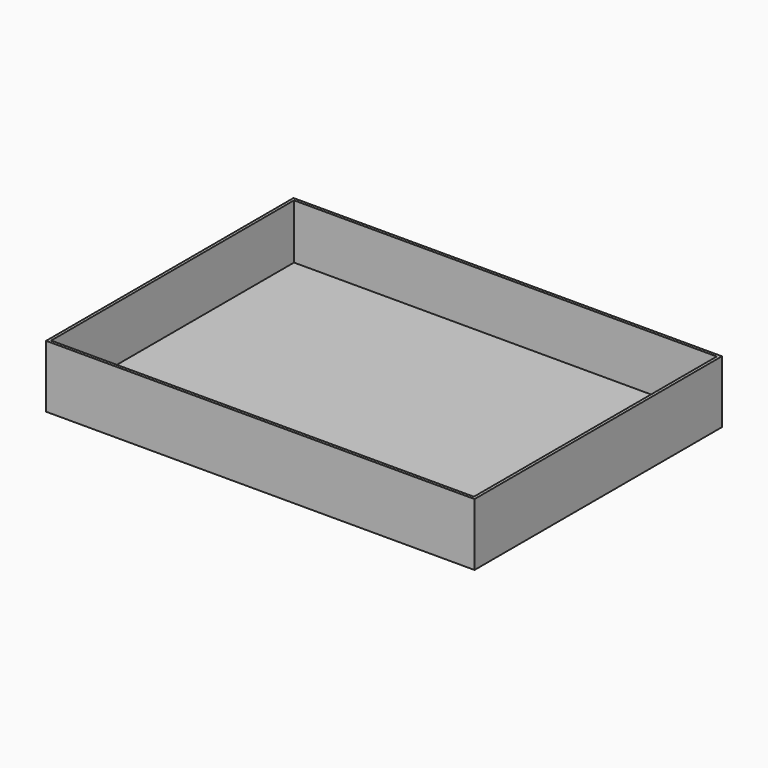
from build123d import *

# Parameters (mm, degrees)
BOX001_W     = 74.5
BOX001_H     = 53.5
BOX001_DEPTH = 10
BOX_W        = 75.5
BOX_H        = 54.5
BOX_DEPTH    = 11


with BuildPart() as cubo001:
    # Box001 → Box001 (new body)
    with BuildSketch(Plane(origin=(0.49, 0.5, 1.35), x_dir=(1, 0, 0), z_dir=(0, 0, 1))):
        with Locations((37.25, 26.75)):
            Rectangle(BOX001_W, BOX001_H)
    extrude(amount=BOX001_DEPTH)


with BuildPart() as cut:
    # Box → Box (new body)
    with BuildSketch(Plane.XY):
        with Locations((37.75, 27.25)):
            Rectangle(BOX_W, BOX_H)
    extrude(amount=BOX_DEPTH)

    # Cut: cut Cubo001
    add(cubo001.part, mode=Mode.SUBTRACT)


solid = cut.part
